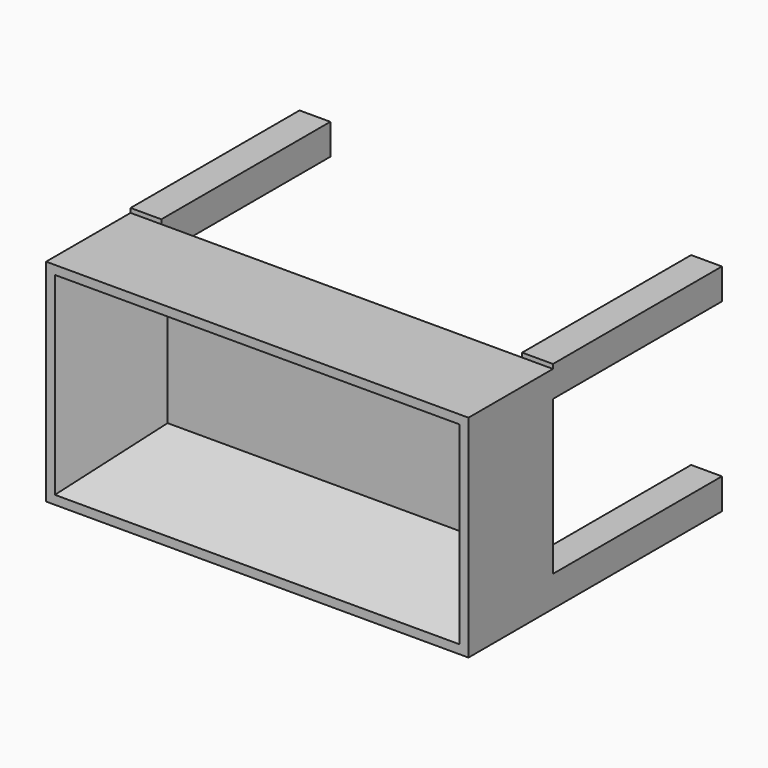
from build123d import *

# Parameters (mm, degrees)
F0_W     = 1219.2
F0_H     = 609.6
F1_DEPTH = 304.8
F2_W     = 1168.4
F2_H     = 558.8
F3_DEPTH = 279.4
F3_TAPER = 20
F4_W     = 88.9
F4_H     = 88.9
F5_DEPTH = 609.6


with BuildPart() as f1:
    # F0 (on Front) → F1 (new body)
    with BuildSketch(Plane.XZ):
        with Locations((0, -90.1043365546)):
            Rectangle(F0_W, F0_H)
    extrude(amount=F1_DEPTH)

    # F2 (on face) → F3 (cut)
    with BuildSketch(Plane.XZ.offset(304.8)):
        with Locations((0, -90.1043365546)):
            Rectangle(F2_W, F2_H)
    extrude(amount=-F3_DEPTH, taper=F3_TAPER, mode=Mode.SUBTRACT)

    # F4 (on face) → F5 (join)
    with BuildSketch(Plane.XZ):
        with Locations((-565.15, -350.4543365546)):
            Rectangle(F4_W, F4_H)
        with Locations((565.15, -350.4543365546)):
            Rectangle(F4_W, F4_H)
        with Locations((565.15, 182.8677715369)):
            Rectangle(F4_W, F4_H)
        with Locations((-565.15, 182.8677715369)):
            Rectangle(F4_W, F4_H)
    extrude(amount=-F5_DEPTH)


solid = f1.part
